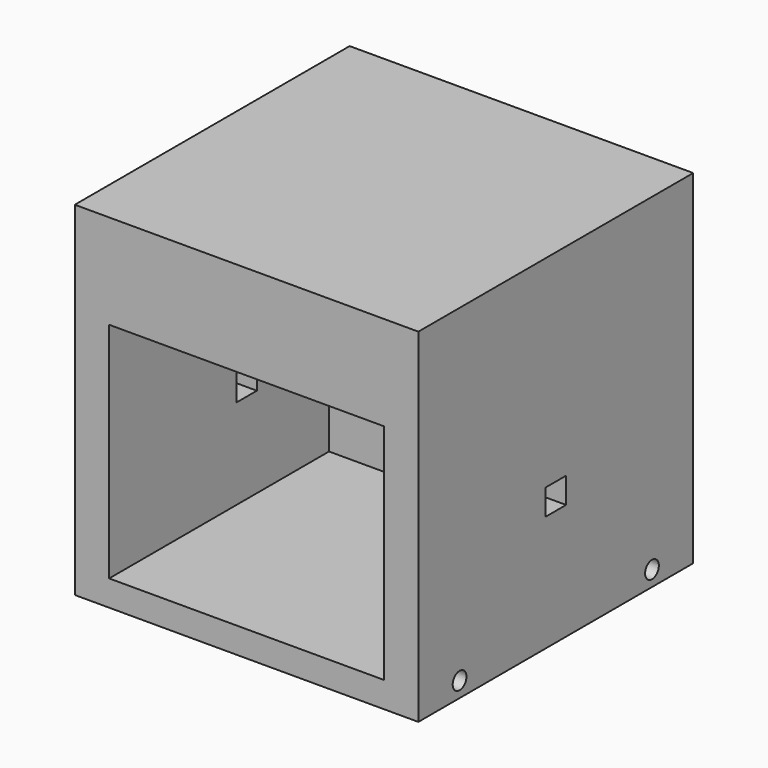
from build123d import *

# Parameters (mm, degrees)
F0_W           = 200
F0_H           = 200
F1_DEPTH       = 200
F2_W           = 160
F2_H           = 130
F3_DEPTH       = 160
F5_DEPTH       = 24
F7_R           = 5
F8_DEPTH       = 25
F9_DEPTH       = 25
F9_DEPTH_BACK  = 203.2
F10_DEPTH      = 25
F10_DEPTH_BACK = 215.8


with BuildPart() as f1:
    # F0 (on Top) → F1 (new body)
    with BuildSketch(Plane.XY):
        Rectangle(F0_W, F0_H)
    extrude(amount=F1_DEPTH)

    # F2 (on face) → F3 (cut)
    with BuildSketch(Plane.XZ.offset(100)):
        with Locations((0, 80)):
            Rectangle(F2_W, F2_H)
    extrude(amount=-F3_DEPTH, mode=Mode.SUBTRACT)

    # F4 (on face) → F5 (cut)
    with BuildSketch(Plane.YZ.offset(100)):
        Polygon((-7.5, 67.5), (0, 67.5), (7.5, 67.5), (7.5, 82.5), (-7.5, 82.5), align=None)
    extrude(amount=-F5_DEPTH, mode=Mode.SUBTRACT)

    # F6 (on face) + F7 (on face) → F8 (cut)
    with BuildSketch(Plane(origin=(-100, 0, 0), x_dir=(0, -1, 0), z_dir=(-1, 0, 0))):
        Polygon((-7.5, 67.5), (0, 67.5), (7.5, 67.5), (7.5, 82.5), (-7.5, 82.5), align=None)
    with BuildSketch(Plane.YZ.offset(100)):
        with Locations((70, 9)):
            Circle(F7_R)
        with Locations((-70, 9)):
            Circle(F7_R)
    extrude(amount=-F8_DEPTH, mode=Mode.SUBTRACT)

    # F7 (on face) → F9 (cut, two sides)
    with BuildSketch(Plane.YZ.offset(100)) as f9_sk:
        with Locations((-70, 9)):
            Circle(F7_R)
    extrude(amount=F9_DEPTH, mode=Mode.SUBTRACT)
    extrude(f9_sk.sketch, amount=-F9_DEPTH_BACK, mode=Mode.SUBTRACT)

    # F7 (on face) → F10 (cut, two sides)
    with BuildSketch(Plane.YZ.offset(100)) as f10_sk:
        with Locations((70, 9)):
            Circle(F7_R)
    extrude(amount=F10_DEPTH, mode=Mode.SUBTRACT)
    extrude(f10_sk.sketch, amount=-F10_DEPTH_BACK, mode=Mode.SUBTRACT)


solid = f1.part
